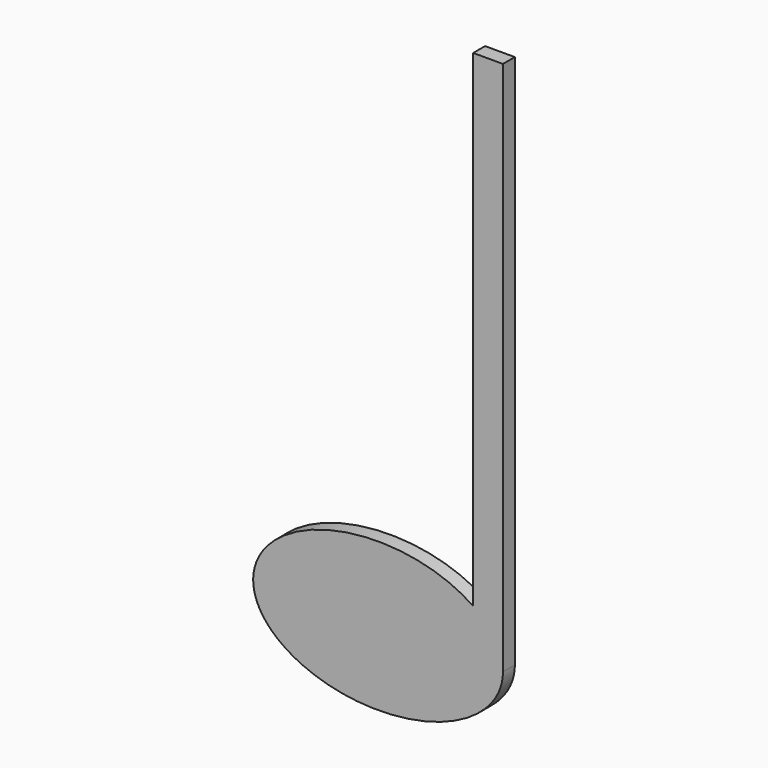
from build123d import *

# Parameters (mm, degrees)
F1_DEPTH = 3.175


with BuildPart() as f1:
    # F0 (on Front) → F1 (new body)
    with BuildSketch(Plane.XZ):
        with BuildLine():
            Line((20.32, 114.3), (20.32, 10.2820640155))
            add(Edge.make_bspline(
                [(20.32, 10.2820640155), (-2.8311081562, 26.4925718575), (-22.3449392136, 8.6666460529), (-41.858770271, -9.1592797518), (-7.5943851355, -15.2177856472), (26.67, -21.2762915426), (26.67, 0)],
                knots=[0.7045474185, 0.7045474185, 0.7045474185, 2.5640933814, 2.5640933814, 4.4236393443, 4.4236393443, 6.2831853072, 6.2831853072, 6.2831853072], degree=2, weights=[1, 0.5980159495, 1, 0.5980159495, 1, 0.5980159495, 1]))
            Line((26.67, 0), (26.67, 114.3))
            Line((26.67, 114.3), (20.32, 114.3))
        make_face()
    extrude(amount=F1_DEPTH)


solid = f1.part
